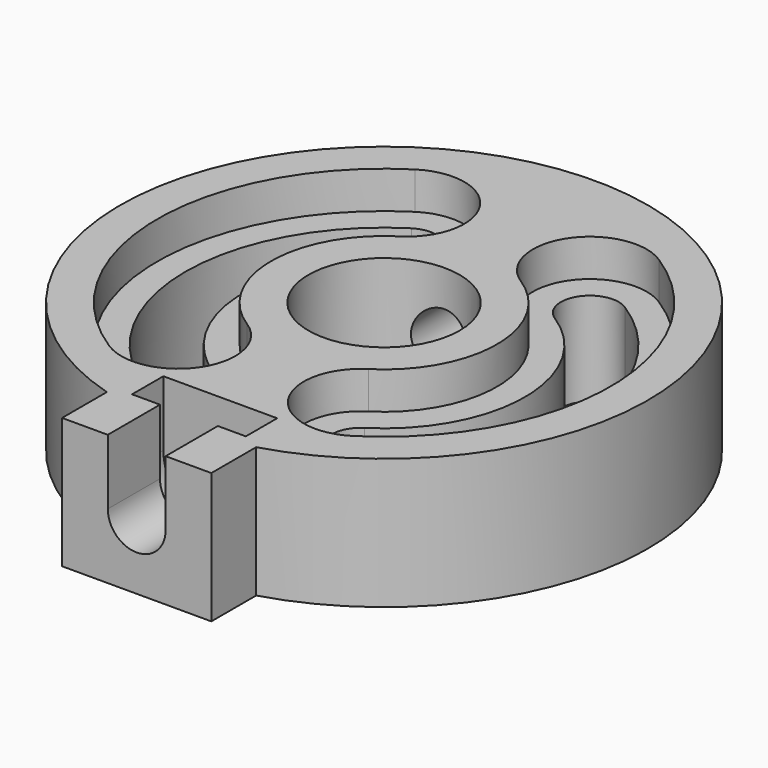
from build123d import *

# Parameters (mm, degrees)
SKETCH_R        = 4.05
EXTRUDE_DEPTH   = 7
SKETCH001_R     = 1.55
POCKET_DEPTH    = 30.723859
POCKET001_DEPTH = 3.5
POCKET002_DEPTH = 2.1
POCKET003_DEPTH = 2


with BuildPart() as part:
    # Sketch → Extrude (new body)
    with BuildSketch(Plane.XY):
        with BuildLine():
            ThreePointArc((4, -13.572859), (0, 14.15), (-4, -13.572859))
            Line((-4, -13.572859), (-4, -16.572859))
            Line((-4, -16.572859), (4, -16.572859))
            Line((4, -16.572859), (4, -13.572859))
        make_face()
        Circle(SKETCH_R, mode=Mode.SUBTRACT)
        with BuildLine():
            ThreePointArc((-4.056612, 6.367605), (-7.55, 0), (-4.056612, -6.367605))
            ThreePointArc((-5.722241, -8.982119), (-3.58217, -8.507677), (-4.056612, -6.367605))
            ThreePointArc((-5.722241, 8.982119), (-10.65, 0), (-5.722241, -8.982119))
            ThreePointArc((-4.056612, 6.367605), (-3.58217, 8.507677), (-5.722241, 8.982119))
        make_face(mode=Mode.SUBTRACT)
        with BuildLine():
            ThreePointArc((4.056612, -6.367605), (7.55, 0), (4.056612, 6.367605))
            ThreePointArc((5.722241, 8.982119), (3.58217, 8.507677), (4.056612, 6.367605))
            ThreePointArc((5.722241, -8.982119), (10.65, 0), (5.722241, 8.982119))
            ThreePointArc((4.056612, -6.367605), (3.58217, -8.507677), (5.722241, -8.982119))
        make_face(mode=Mode.SUBTRACT)
    extrude(amount=EXTRUDE_DEPTH)

    # Sketch001 → Pocket (cut, through all)
    with BuildSketch(Plane.XZ.offset(16.572859)):
        with Locations((0, 3.5)):
            Circle(SKETCH001_R)
    extrude(amount=-POCKET_DEPTH, mode=Mode.SUBTRACT)

    # Sketch002 → Pocket001 (cut)
    with BuildSketch(Plane.XY.offset(7)):
        Polygon((-3.049999, -10.972859), (-3.049999, -13.072859), (-1.549999, -13.072859), (-1.549999, -16.572859), (1.550001, -16.572859), (1.550001, -13.072859), (3.050001, -13.072859), (3.050001, -10.972859), align=None)
    extrude(amount=-POCKET001_DEPTH, mode=Mode.SUBTRACT)

    # Sketch003 → Pocket002 (cut)
    with BuildSketch(Plane.XZ.offset(10.972859)):
        with BuildLine():
            ThreePointArc((-3.050001, 3.5), (0, 0.449999), (3.050001, 3.5))
            Line((-3.050001, 3.5), (3.050001, 3.5))
        make_face()
    extrude(amount=POCKET002_DEPTH, mode=Mode.SUBTRACT)

    # Sketch004 → Pocket003 (cut)
    with BuildSketch(Plane.XY.offset(7)):
        with BuildLine():
            ThreePointArc((-3.250663, 5.102518), (-2.317083, 9.313626), (-6.52819, 10.247206))
            ThreePointArc((-6.52819, 10.247206), (-12.15, 0), (-6.52819, -10.247206))
            ThreePointArc((-6.52819, -10.247206), (-2.317083, -9.313626), (-3.250663, -5.102518))
            ThreePointArc((-3.250663, 5.102518), (-6.05, 0), (-3.250663, -5.102518))
        make_face()
        with BuildLine():
            ThreePointArc((6.52819, 10.247206), (2.317083, 9.313626), (3.250663, 5.102518))
            ThreePointArc((3.250663, -5.102518), (6.05, 0), (3.250663, 5.102518))
            ThreePointArc((3.250663, -5.102518), (2.317083, -9.313626), (6.52819, -10.247206))
            ThreePointArc((6.52819, -10.247206), (12.15, 0), (6.52819, 10.247206))
        make_face()
    extrude(amount=-POCKET003_DEPTH, mode=Mode.SUBTRACT)


solid = part.part
